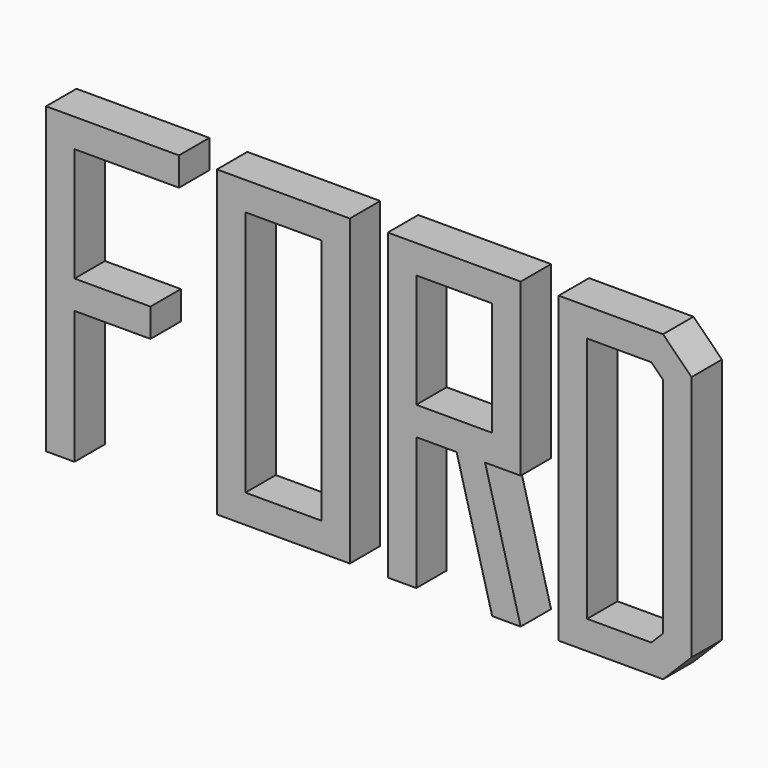
from build123d import *

# Parameters (mm, degrees)
F0_W     = 88.9
F0_H     = 203.2
F0_W_2   = 50.8
F0_H_2   = 165.1
F0_H_3   = 76.2
F1_DEPTH = 25.4


with BuildPart() as f1:
    # F0 (on Front) → F1 (new body)
    with BuildSketch(Plane.XZ):
        Polygon((88.9, 0), (0, 0), (0, -203.2), (19.05, -203.2), (19.05, -114.3), (69.85, -114.3), (69.85, -95.25), (19.05, -95.25), (19.05, -19.05), (88.9, -19.05), align=None)
        with Locations((158.75, -101.6)):
            Rectangle(F0_W, F0_H)
        with Locations((158.75, -101.6)):
            Rectangle(F0_W_2, F0_H_2, mode=Mode.SUBTRACT)
        Polygon((317.5, 0), (228.6, 0), (228.6, -203.2), (247.65, -203.2), (247.65, -114.3), (274.629317, -114.3), (298.45, -203.2), (317.5, -203.2), (293.679317, -114.3), (317.5, -114.3), align=None)
        with Locations((273.05, -57.15)):
            Rectangle(F0_W_2, F0_H_3, mode=Mode.SUBTRACT)
        Polygon((412.75, 0), (342.9, 0), (342.9, -203.2), (412.75, -203.2), (431.8, -184.15), (431.8, -19.05), align=None)
        Polygon((404.859232, -184.15), (361.95, -184.15), (361.95, -19.05), (404.859232, -19.05), (412.75, -26.940768), (412.75, -176.259232), align=None, mode=Mode.SUBTRACT)
    extrude(amount=F1_DEPTH)


solid = f1.part
